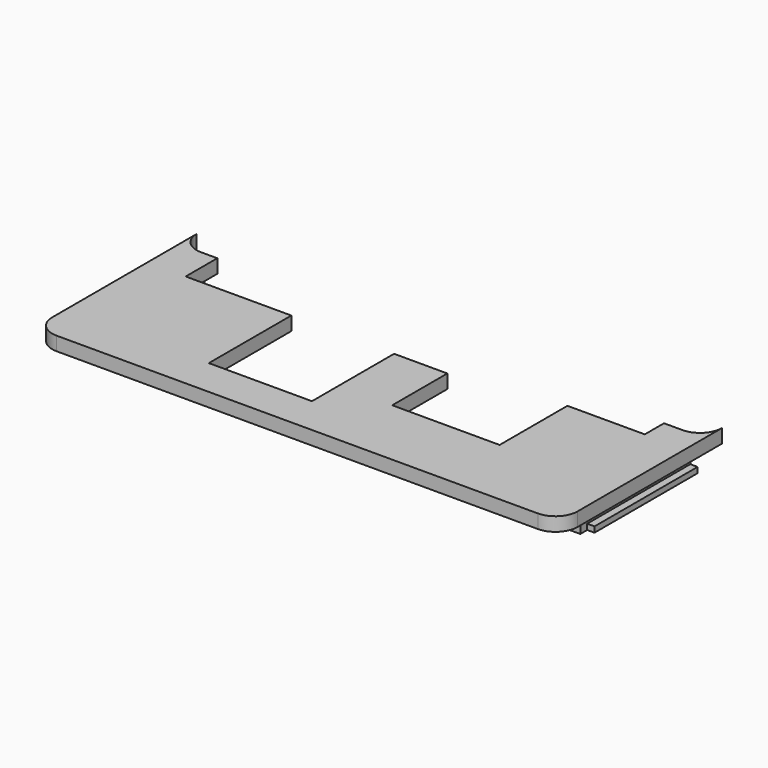
from build123d import *

# Parameters (mm, degrees)
PAD003_DEPTH  = 1.6
SKETCH011_W   = 1.3
SKETCH011_H   = 16
PAD004_DEPTH  = 2.25
SKETCH012_W   = 0.8
SKETCH012_H   = 0.65
SKETCH012_W_2 = 0.85
PAD005_DEPTH  = 15


with BuildPart() as part:
    # Sketch008 → Pad003 (new body)
    with BuildSketch(Plane.XY.offset(85)):
        with BuildLine():
            Line((30.57387, -6.02613), (30.57387, -27.02613))
            ThreePointArc((28, -29.6), (29.820001, -28.846131), (30.57387, -27.02613))
            Line((28, -29.6), (-28, -29.6))
            ThreePointArc((-30.57387, -27.02613), (-29.820001, -28.846131), (-28, -29.6))
            Line((-30.57387, -27.02613), (-30.57387, -6.02613))
            ThreePointArc((-30.57387, -6.02613), (-29.827262, -7.828601), (-28.02479, -8.575209))
            Line((-28.02479, -8.575209), (-26.12479, -8.575209))
            Line((-26.12479, -8.575209), (-26.12479, -13.175209))
            Line((-26.12479, -13.175209), (-13.82859, -13.175209))
            Line((-13.82859, -13.175209), (-13.82859, -25.175209))
            Line((-13.82859, -25.175209), (-1.82859, -25.175209))
            Line((-1.82859, -25.175209), (-1.82859, -13.224409))
            Line((-1.82859, -13.224409), (4.37141, -13.224409))
            Line((4.37141, -13.224409), (4.37141, -21.24222))
            Line((4.37141, -21.24222), (16.87141, -21.24222))
            Line((16.87141, -21.24222), (16.87141, -11.37521))
            Line((16.87141, -11.37521), (25.87141, -11.37521))
            Line((25.87141, -11.37521), (25.87141, -8.57521))
            Line((25.87141, -8.57521), (28.02479, -8.57521))
            ThreePointArc((28.02479, -8.57521), (29.827262, -7.828602), (30.57387, -6.02613))
        make_face()
    extrude(amount=PAD003_DEPTH)

    # Sketch011 → Pad004 (new body)
    with BuildSketch(Plane(origin=(0, 0, 85), x_dir=(1, 0, 0), z_dir=(0, 0, -1))):
        with Locations((-28.27479, 16.575209)):
            Rectangle(SKETCH011_W, SKETCH011_H)
        with Locations((28.281635, 16.57521)):
            Rectangle(SKETCH011_W, SKETCH011_H)
    extrude(amount=PAD004_DEPTH)

    # Sketch012 → Pad005 (new body)
    with BuildSketch(Plane(origin=(0, -8.57521, 85), x_dir=(-1, 0, 0), z_dir=(0, 1, 0))):
        with Locations((29.32479, -1.925)):
            Rectangle(SKETCH012_W, SKETCH012_H)
        with Locations((-29.356635, -1.925)):
            Rectangle(SKETCH012_W_2, SKETCH012_H)
    extrude(amount=-PAD005_DEPTH)


solid = part.part
